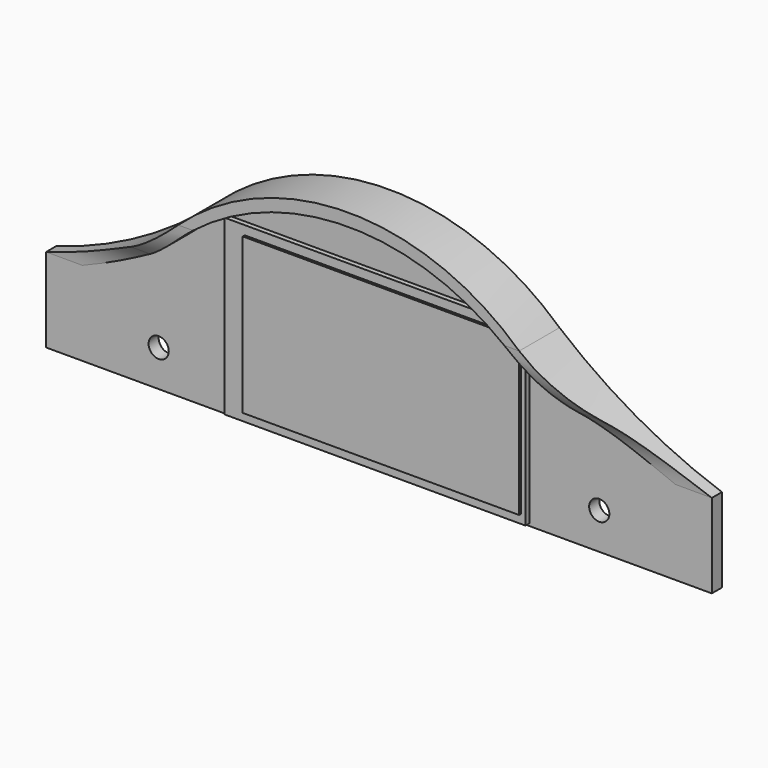
from build123d import *

# Parameters (mm, degrees)
PAD_DEPTH       = 20
POCKET_DEPTH    = 15
POCKET001_DEPTH = 263.99865
SKETCH014_R     = 4.85
SKETCH014_R_2   = 2.425
SKETCH014_R_3   = 4
POCKET002_DEPTH = 5.001
SKETCH002_W     = 119.3
SKETCH002_H     = 68.7
PAD001_DEPTH    = 1.96
SKETCH003_W     = 109.6
SKETCH003_H     = 61.6
PAD002_DEPTH    = 1


with BuildPart() as part:
    # Sketch → Pad (new body)
    with BuildSketch(Plane.XZ):
        with BuildLine():
            ThreePointArc((-131.99765, 38.055004), (-97.721492, 52.596551), (-67.607356, 74.492906))
            ThreePointArc((67.607356, 74.492906), (0, 100.809493), (-67.607356, 74.492906))
            ThreePointArc((67.607356, 74.492906), (98.150505, 53.35467), (131.99765, 38.055004))
            Line((131.99765, 38.055004), (131.99765, 4.702024))
            Line((131.99765, 4.702024), (-131.99765, 4.702024))
            Line((-131.99765, 4.702024), (-131.99765, 38.055004))
        make_face()
    extrude(amount=PAD_DEPTH)

    # Sketch012 → Pocket (cut)
    with BuildSketch(Plane.XZ.offset(20)):
        with BuildLine():
            Line((-126.99765, -34.311944), (126.99765, -34.311944))
            Line((126.99765, -34.311944), (126.99765, 34.620733))
            ThreePointArc((67.607356, 69.492906), (95.451831, 48.904968), (126.99765, 34.620733))
            ThreePointArc((67.607356, 69.492906), (0, 95.809493), (-67.607356, 69.492906))
            ThreePointArc((-126.99765, 34.620733), (-95.451831, 48.904968), (-67.607356, 69.492906))
            Line((-126.99765, -34.311944), (-126.99765, 34.620733))
        make_face()
    extrude(amount=-POCKET_DEPTH, mode=Mode.SUBTRACT)

    # Sketch013 → Pocket001 (cut, through all)
    with BuildSketch(Plane.YZ.offset(132)):
        with BuildLine():
            Line((-20, 4.702024), (-5, 4.702024))
            Line((-5, 4.702024), (-5, 38.055004))
            ThreePointArc((-5, 38.055004), (-6.952423, 47.67633), (-12.500816, 55.77554))
            ThreePointArc((-20, 74.492906), (-18.05546, 64.411022), (-12.500816, 55.77554))
            Line((-20, 4.702024), (-20, 74.492906))
        make_face()
    extrude(amount=-POCKET001_DEPTH, mode=Mode.SUBTRACT)

    # Sketch014 → Pocket002 (cut, through all)
    with BuildSketch(Plane.XZ.offset(5)):
        with Locations((-50, 14)):
            Circle(SKETCH014_R)
        with Locations((-28, 14)):
            Circle(SKETCH014_R_2)
        with Locations((28, 14)):
            Circle(SKETCH014_R_2)
        with Locations((50, 14)):
            Circle(SKETCH014_R)
        with Locations((-87.350586, 19.199383)):
            Circle(SKETCH014_R_3)
        with Locations((87.350586, 19.199383)):
            Circle(SKETCH014_R_3)
    extrude(amount=-POCKET002_DEPTH, mode=Mode.SUBTRACT)

    # Sketch002 → Pad001 (join)
    with BuildSketch(Plane(origin=(0, -5, 40), x_dir=(1, 0, 0), z_dir=(0, -1, 0))):
        Rectangle(SKETCH002_W, SKETCH002_H)
    extrude(amount=PAD001_DEPTH)

    # Sketch003 → Pad002 (join)
    with BuildSketch(Plane(origin=(0, -6.96, 40), x_dir=(1, 0, 0), z_dir=(0, -1, 0))):
        with Locations((3.15, 0)):
            Rectangle(SKETCH003_W, SKETCH003_H)
    extrude(amount=PAD002_DEPTH)


solid = part.part
